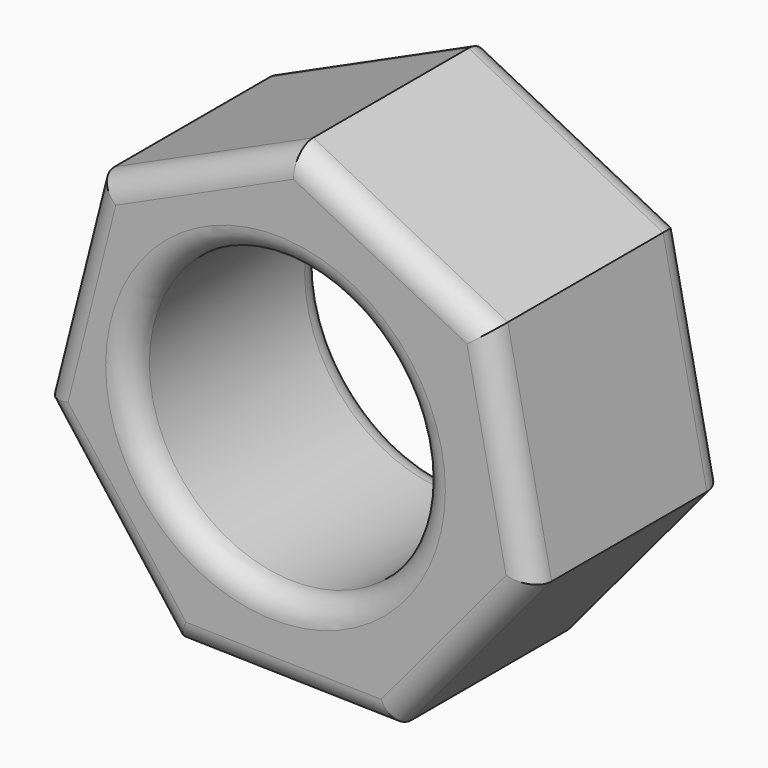
from build123d import *

# Parameters (mm, degrees)
F1_DEPTH = 50
F2_R     = 30
F3_DEPTH = 50.001
F4_R     = 5


with BuildPart() as f1:
    # F0 (on Front) → F1 (new body)
    with BuildSketch(Plane.XZ):
        Polygon((43.8775578274, 31.4054595038), (3.7867815374, 51.8438952675), (-37.1888211604, 33.242820472), (-48.1937856847, -10.3907761688), (-20.9411492883, -46.1999064214), (24.0472969699, -47.2195648323), (52.8943354603, -12.6819278209), align=None)
    extrude(amount=F1_DEPTH)

    # F2 (on Front) → F3 (cut, through all)
    with BuildSketch(Plane.XZ):
        Circle(F2_R)
    extrude(amount=F3_DEPTH, mode=Mode.SUBTRACT)

    # F4
    f4_edges = [f1.edges().sort_by_distance(p)[0] for p in [
        (38.470816, -50, -29.950746),
        (1.553074, -50, -46.709736),
        (48.385947, -50, 9.361766),
        (-34.567467, -50, -28.295341),
        (23.83217, -50, 41.624677),
        (-42.691303, -50, 11.426022),
        (-16.70102, -50, 42.543358),
        (-30, -50, 0),
        (38.470816, 0, -29.950746),
        (1.553074, 0, -46.709736),
        (48.385947, 0, 9.361766),
        (-34.567467, 0, -28.295341),
        (23.83217, 0, 41.624677),
        (-42.691303, 0, 11.426022),
        (-16.70102, 0, 42.543358),
        (-30, 0, 0),
    ]]
    fillet(f4_edges, radius=F4_R)


solid = f1.part
